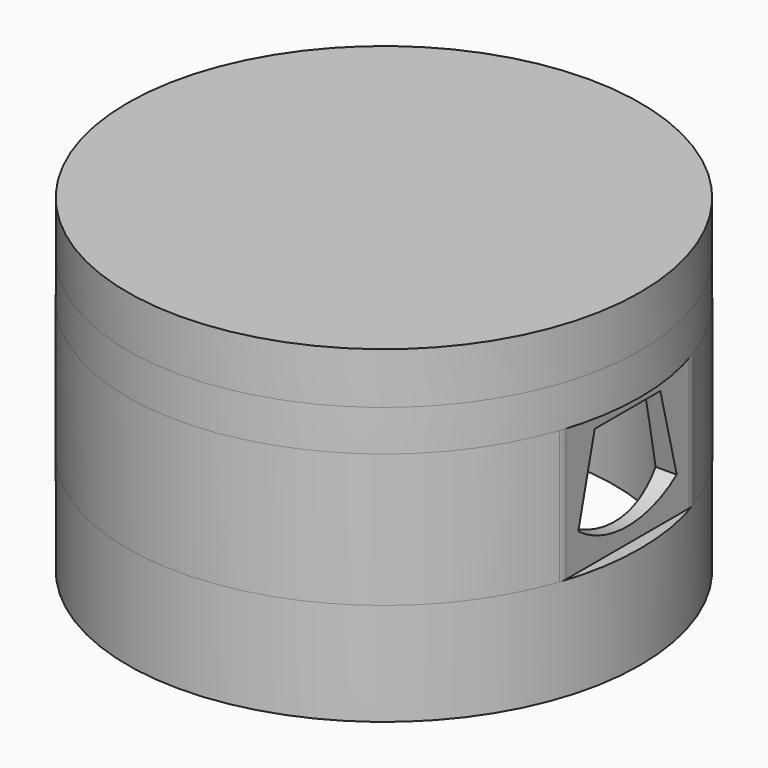
from build123d import *

# Parameters (mm, degrees)
EXTRUDE003_DEPTH = 47.5
OFFSET001_R      = 25
OFFSET001_R_2    = 22.5
EXTRUDE002_DEPTH = 4
FACE_R           = 25
FACE_R_2         = 22.5
EXTRUDE_DEPTH    = 10
OFFSET_R         = 22.5
EXTRUDE001_DEPTH = 13
FILLET_R         = 2
FILLET001_R      = 2
FILLET002_R      = 2
FILLET003_R      = 2
SKETCH003_R      = 25
EXTRUDE004_DEPTH = 5


with BuildPart() as extrude003:
    # Face002 → Extrude003 (new body)
    with BuildSketch(Plane(origin=(23.749999, 0, 16.462815), x_dir=(0, -1, 0), z_dir=(1, 0, 0))):
        with BuildLine():
            Line((-4, -5.037185), (4, -5.037185))
            Line((4, -5.037185), (6, 2.962815))
            ThreePointArc((6, 2.962815), (0, 4.962815), (-6, 2.962815))
            Line((-6, 2.962815), (-4, -5.037185))
        make_face()
    extrude(amount=-EXTRUDE003_DEPTH)


with BuildPart() as extrude002:
    # Offset001 → Extrude002 (new body)
    with BuildSketch(Plane(origin=(0, 0, 23), x_dir=(0, 1, 0), z_dir=(0, 0, 1))):
        Circle(OFFSET001_R)
        Circle(OFFSET001_R_2, mode=Mode.SUBTRACT)
    extrude(amount=EXTRUDE002_DEPTH)


with BuildPart() as fusion:
    # Face → Extrude (new body)
    with BuildSketch(Plane(origin=(0, 0, 0), x_dir=(0, 1, 0), z_dir=(0, 0, 1))):
        Circle(FACE_R)
        Circle(FACE_R_2, mode=Mode.SUBTRACT)
    extrude(amount=EXTRUDE_DEPTH)

    # Fusion: union Extrude002
    add(extrude002.part)


with BuildPart() as cut:
    # Offset → Extrude001 (new body)
    with BuildSketch(Plane(origin=(0, 0, 10), x_dir=(0, 1, 0), z_dir=(0, 0, 1))):
        with BuildLine():
            ThreePointArc((7.80625, -23.749999), (25, 0), (7.80625, 23.749999))
            Line((7.80625, 23.749999), (-7.80625, 23.749999))
            ThreePointArc((-7.80625, 23.749999), (-25, 0), (-7.80625, -23.749999))
            Line((-7.80625, -23.749999), (7.80625, -23.749999))
        make_face()
        Circle(OFFSET_R, mode=Mode.SUBTRACT)
    extrude(amount=EXTRUDE001_DEPTH)

    # Fillet
    fillet_edges = [cut.edges().sort_by_distance(p)[0] for p in [
        (23.749999, -7.80625, 16.5),
    ]]
    fillet(fillet_edges, radius=FILLET_R)

    # Fillet001
    fillet001_edges = [cut.edges().sort_by_distance(p)[0] for p in [
        (23.749999, 7.80625, 16.5),
    ]]
    fillet(fillet001_edges, radius=FILLET001_R)

    # Fillet002
    fillet002_edges = [cut.edges().sort_by_distance(p)[0] for p in [
        (-23.749999, 7.80625, 16.5),
    ]]
    fillet(fillet002_edges, radius=FILLET002_R)

    # Fillet003
    fillet003_edges = [cut.edges().sort_by_distance(p)[0] for p in [
        (-23.749999, -7.80625, 16.5),
    ]]
    fillet(fillet003_edges, radius=FILLET003_R)

    # Fusion001: union Fusion
    add(fusion.part)

    # Cut: cut Extrude003
    add(extrude003.part, mode=Mode.SUBTRACT)


with BuildPart() as extrude004:
    # Sketch003 (on Face4 of Extrude002) → Extrude004 (new body)
    with BuildSketch(Plane.XY.offset(27)):
        Circle(SKETCH003_R)
    extrude(amount=EXTRUDE004_DEPTH)


solid = Compound([cut.part, extrude004.part])
